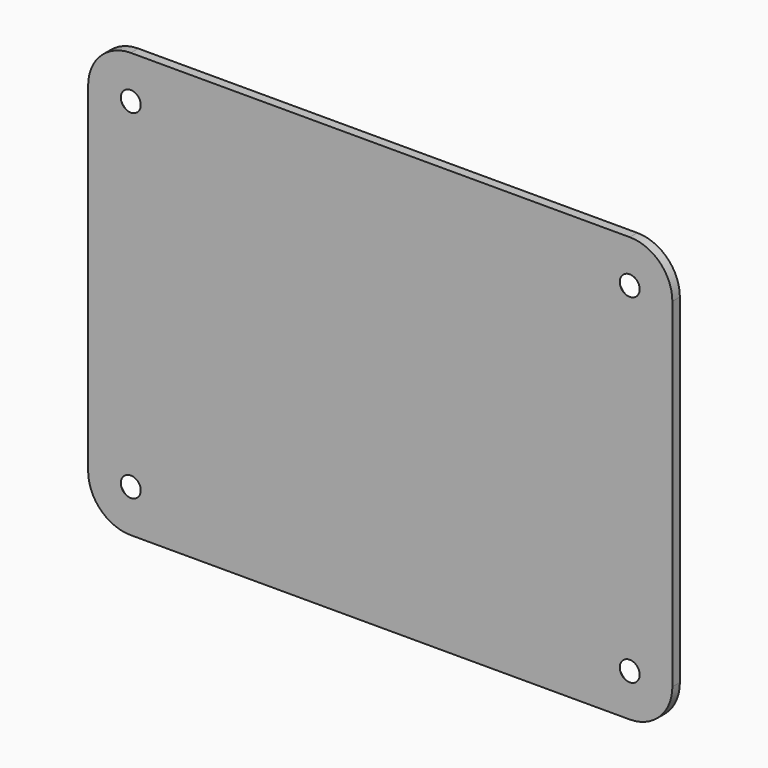
from build123d import *

# Parameters (mm, degrees)
F0_W           = 95.9
F0_H           = 69.7
F1_DEPTH       = 1.54
F2_R           = 7
F3_D           = 2.8448
F3_CSINK_D     = 6.35
F3_CSINK_ANGLE = 90


with BuildPart() as f1:
    # F0 (on Front) → F1 (new body)
    with BuildSketch(Plane.XZ):
        with Locations((-8.388126269, 18.5557605668)):
            Rectangle(F0_W, F0_H)
    extrude(amount=F1_DEPTH)

    # F2
    f2_edges = [f1.edges().sort_by_distance(p)[0] for p in [
        (-56.338126, -0.77, -16.294239),
        (39.561874, -0.77, -16.294239),
        (39.561874, -0.77, 53.405761),
        (-56.338126, -0.77, 53.405761),
    ]]
    fillet(f2_edges, radius=F2_R)

    # F3 (through all)
    with Locations(Plane(origin=(0, 0, 0), x_dir=(1, 0, 0), z_dir=(0, 1, 0))):
        with Locations((-49.338126269, -46.4057605668), (32.561873731, -46.4057605668), (32.561873731, 9.2942394332), (-49.338126269, 9.2942394332)):
            CounterSinkHole(F3_D / 2, F3_CSINK_D / 2, counter_sink_angle=F3_CSINK_ANGLE)


solid = f1.part
